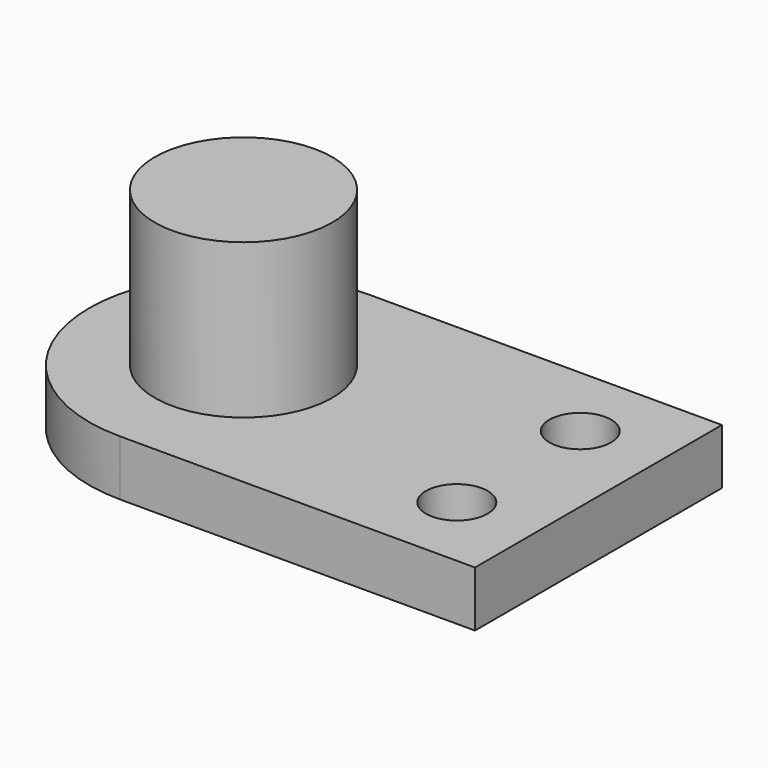
from build123d import *

# Parameters (mm, degrees)
PAD_DEPTH            = 1.8
SKETCH004_R          = 2.875
PAD001_DEPTH         = 5
SKETCH005_R          = 1
POCKET_DEPTH         = 1.801
BODY_PLACEMENT_ANGLE = 90


with BuildPart() as part:
    # Sketch → Pad (new body)
    with BuildSketch(Plane.XY):
        with BuildLine():
            ThreePointArc((5, 0), (0, 5), (-5, 0))
            Line((-5, -11.5), (-5, 0))
            Line((5, -11.5), (-5, -11.5))
            Line((5, 0), (5, -11.5))
        make_face()
    extrude(amount=PAD_DEPTH)

    # Sketch004 (on Face6 of Pad) → Pad001 (join)
    with BuildSketch(Plane.XY.offset(1.8)):
        Circle(SKETCH004_R)
    extrude(amount=PAD001_DEPTH)

    # Sketch005 (on Face5 of Pad001) → Pocket (cut, through all)
    with BuildSketch(Plane.XY.offset(1.8)):
        with Locations((-2.5, -8.910861)):
            Circle(SKETCH005_R)
        with Locations((2.5, -8.910861)):
            Circle(SKETCH005_R)
    extrude(amount=-POCKET_DEPTH, mode=Mode.SUBTRACT)


with BuildPart() as part_1:
    # Body placement: moved
    add(part.part.rotate(Axis((0, 0, 0), (0, 0, 1)), BODY_PLACEMENT_ANGLE))


solid = part_1.part
